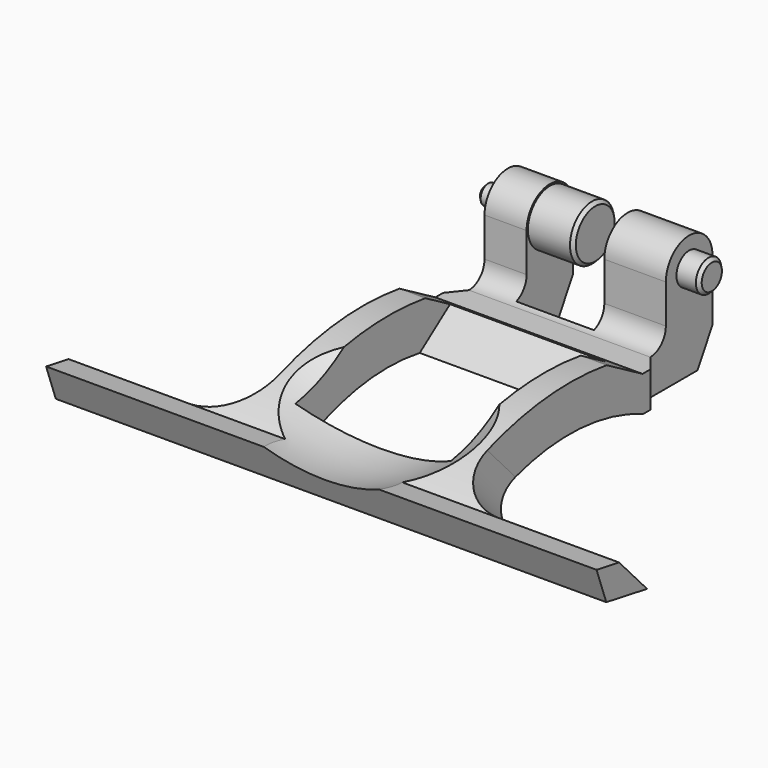
from build123d import *

# Parameters (mm, degrees)
PAD_DEPTH            = 42.5
SKETCH001_W          = 11
SKETCH001_H          = 12
POCKET_DEPTH         = 19.001
POCKET001_DEPTH      = 229.0486136499
SKETCH003_W          = 21
SKETCH003_H          = 24
POCKET002_DEPTH      = 19.001
POCKET002_DEPTH_BACK = 2.001
POCKET003_DEPTH      = 26.5
SKETCH006_R          = 2.45
PAD001_DEPTH         = 3.5
SKETCH007_R          = 1.5
PAD002_DEPTH         = 3.5
SKETCH008_R          = 4.25
PAD003_DEPTH         = 7
SKETCH009_W          = 24
SKETCH009_H          = 5.7855610815
POCKET004_DEPTH      = 38.3792032733
SKETCH010_W          = 24
SKETCH010_H          = 3.7173874083
POCKET005_DEPTH      = 23.1222095644
SKETCH011_W          = 2
SKETCH011_H          = 4
POCKET006_DEPTH      = 2
CHAMFER_SIZE         = 0.5
FILLET_R             = 8


with BuildPart() as part:
    # Sketch → Pad (new body, symmetric)
    with BuildSketch(Plane.YZ):
        with BuildLine():
            Line((23.6132486541, 0), (36.6132486541, 0))
            Line((36.6132486541, 0), (39.5, 5))
            Line((39.5, 5), (39.5, 14.5))
            ThreePointArc((39.5, 14.5), (35, 19), (30.5, 14.5))
            Line((30.5, 14.5), (30.5, 8.5))
            ThreePointArc((27.5, 5.5), (29.6213203436, 6.3786796564), (30.5, 8.5))
            Line((27.5, 5.5), (23.5, 5.5))
            Line((23.5, 5.5), (16.5717967697, 9.5))
            ThreePointArc((16.5717967697, 9.5), (0.731487802, 9.2160988481), (-14.1535861905, 3.7911048117))
            Line((-18.5, 4.5574948357), (-14.1535861905, 3.7911048117))
            Line((-16.6188892117, -0.6108145787), (-18.5, 4.5574948357))
            Line((-8.7404271876, -2), (-16.6188892117, -0.6108145787))
            ThreePointArc((23.6132486541, 0), (7.1909178254, 2.97129898), (-8.7404271876, -2))
        make_face()
    extrude(amount=PAD_DEPTH, both=True)

    # Sketch001 (on Face1 of Pad) → Pocket (cut, through all)
    with BuildSketch(Plane.YX):
        with Locations((34, -1.5)):
            Rectangle(SKETCH001_W, SKETCH001_H)
    extrude(amount=-POCKET_DEPTH, mode=Mode.SUBTRACT)

    # Sketch002 (on Face1 of Pocket) → Pocket001 (cut, through all)
    with BuildSketch(Plane.YX):
        Polygon((0, 42.5), (39.5, 42.5), (39.5, 14), (27.5, 14), (25, 16), (0, 16), align=None)
    pocket001 = extrude(amount=-POCKET001_DEPTH, mode=Mode.SUBTRACT)

    # Mirrored: Pocket001 across YZ
    add(pocket001.mirror(Plane.YZ), mode=Mode.SUBTRACT)

    # Sketch003 (on Face1 of Mirrored) → Pocket002 (cut, two sides)
    with BuildSketch(Plane.YX) as pocket002_sk:
        with Locations((5, 0)):
            Rectangle(SKETCH003_W, SKETCH003_H)
    extrude(amount=-POCKET002_DEPTH, mode=Mode.SUBTRACT)
    extrude(pocket002_sk.sketch, amount=POCKET002_DEPTH_BACK, mode=Mode.SUBTRACT)

    # Sketch004 (on Face28 of Pocket002) → Pocket003 (cut)
    with BuildSketch(Plane.YZ.offset(42.5)):
        Polygon((0, 9.0743034734), (0, -11.3506822755), (-19.0919866044, 9.0743034734), align=None)
    pocket003 = extrude(amount=-POCKET003_DEPTH, mode=Mode.SUBTRACT)

    # Mirrored001: Pocket003 across YZ
    add(pocket003.mirror(Plane.YZ), mode=Mode.SUBTRACT)

    # Sketch006 (on Face9 of Mirrored001) → Pad001 (join)
    with BuildSketch(Plane.YZ.offset(14)):
        with Locations((35, 14.5)):
            Circle(SKETCH006_R)
    extrude(amount=PAD001_DEPTH)

    # Sketch007 (on Face4 of Pad001) → Pad002 (join)
    with BuildSketch(Plane(origin=(-14, 0, 0), x_dir=(0, 1, 0), z_dir=(-1, 0, 0))):
        with Locations((35, -14.5)):
            Circle(SKETCH007_R)
    extrude(amount=PAD002_DEPTH)

    # Sketch008 (on Face6 of Pad002) → Pad003 (join)
    with BuildSketch(Plane.YZ.offset(-7.5)):
        with Locations((35, 14.5)):
            Circle(SKETCH008_R)
    extrude(amount=PAD003_DEPTH)

    # Sketch009 (on DatumPlane) → Pocket004 (cut, through all)
    with BuildSketch(Plane(origin=(4.6666666667, 24.8333333333, 3.6666666667), x_dir=(-1, 0, 0), z_dir=(0, 0.8087360843, 0.5881716977))):
        with Locations((4.6666666667, 7.4335939838)):
            Rectangle(SKETCH009_W, SKETCH009_H)
    extrude(amount=-POCKET004_DEPTH, mode=Mode.SUBTRACT)

    # Sketch010 (on DatumPlane) → Pocket005 (cut, through all)
    with BuildSketch(Plane(origin=(-5.3333333333, -6.5801423959, -0.8458036702), x_dir=(1, 0, 0), z_dir=(0, -0.4712379677, 0.8820061099))):
        with Locations((5.3333333333, 3.0833364632)):
            Rectangle(SKETCH010_W, SKETCH010_H)
    extrude(amount=POCKET005_DEPTH, mode=Mode.SUBTRACT)

    # Sphere → Sphere (revolve, cut)
    with BuildSketch(Plane(origin=(0, -12, 27), x_dir=(0, 0, 1), z_dir=(-1, 0, 0))):
        with BuildLine():
            ThreePointArc((0, -25), (25, 0), (0, 25))
            Line((0, 25), (0, -25))
        make_face()
    revolve(axis=Axis((0, -12, 27), (0, 1, 0)), mode=Mode.SUBTRACT)

    # Sketch011 (on Face1 of Sphere) → Pocket006 (cut)
    with BuildSketch(Plane(origin=(0, -12, 0), x_dir=(-1, 0, 0), z_dir=(0, 0, -1))):
        with Locations((5.5, 38.5)):
            Rectangle(SKETCH011_W, SKETCH011_H)
    extrude(amount=-POCKET006_DEPTH, mode=Mode.SUBTRACT)

    # Chamfer
    chamfer_edges = [part.edges().sort_by_distance(p)[0] for p in [
        (17.5, 32.55, 14.5),
        (-0.5, 30.75, 14.5),
        (-17.5, 33.5, 14.5),
    ]]
    chamfer(chamfer_edges, length=CHAMFER_SIZE)

    # Fillet
    fillet_edges = [part.edges().sort_by_distance(p)[0] for p in [
        (16, -11.447007, 0.895552),
        (-16, -11.447007, 0.895552),
    ]]
    fillet(fillet_edges, radius=FILLET_R)


solid = part.part
